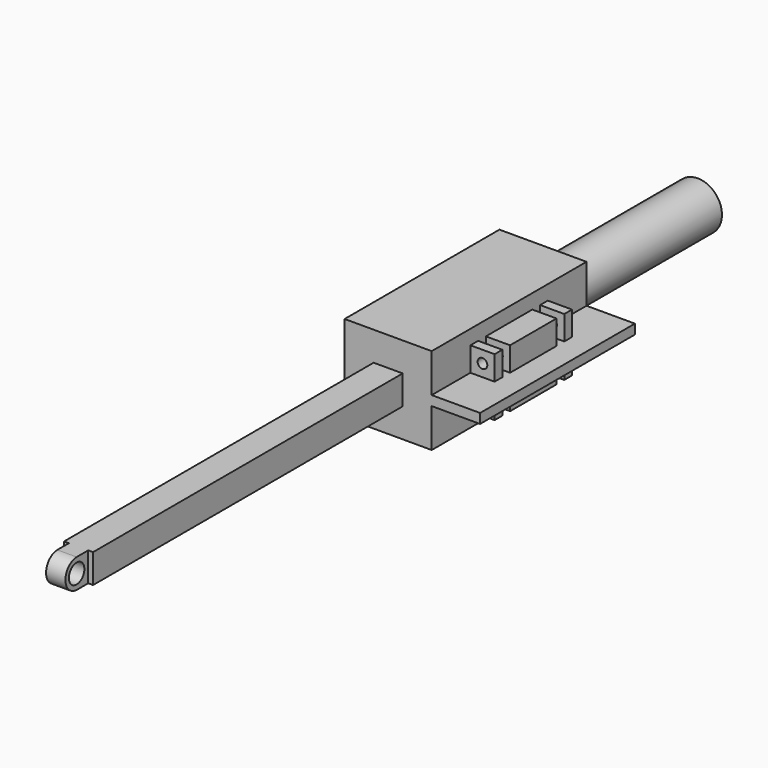
from build123d import *

# Parameters (mm, degrees)
F0_W      = 101.6
F0_H      = 7.62
F1_DEPTH  = 7.62
F2_W      = 5.08
F2_H      = 7.62
F3_DEPTH  = 7.62
F4_R      = 2.54
F5_DEPTH  = 25.4
F6_W      = 22.86
F6_H      = 22.86
F6_W_2    = 7.62
F6_H_2    = 7.62
F7_DEPTH  = 50.8
F8_R      = 6.35
F8_R_2    = 3.81
F9_DEPTH  = 50.8
F10_W     = 50.8
F10_H     = 2.54
F11_DEPTH = 12.7
F12_W     = 2.54
F12_H     = 6.35
F12_W_2   = 15.24
F13_DEPTH = 6.35
F14_W     = 2.54
F14_H     = 6.35
F14_W_2   = 15.24
F15_DEPTH = 6.35
F16_R     = 1.27
F17_DEPTH = 25.4
F18_R     = 1.27
F19_DEPTH = 25.4


with BuildPart() as f1:
    # F0 (on Right) → F1 (new body)
    with BuildSketch(Plane.YZ):
        with Locations((-1.6321643911, 33.6084578316)):
            Rectangle(F0_W, F0_H)
    extrude(amount=F1_DEPTH)

    # F2 (on face) → F3 (join)
    with BuildSketch(Plane.XZ.offset(52.4321643911)):
        with Locations((3.81, 33.6084578316)):
            Rectangle(F2_W, F2_H)
    extrude(amount=F3_DEPTH)

    # F4 (on face) → F5 (cut)
    with BuildSketch(Plane.YZ.offset(6.35)):
        with Locations((-56.2421643911, 33.6084578316)):
            Circle(F4_R)
        with BuildLine():
            ThreePointArc((-56.2421643911, 29.7984578316), (-59.9211503168, 33.6084578316), (-56.2421643911, 37.4184578316))
            Line((-56.2421643911, 37.4184578316), (-60.0521643911, 37.4184578316))
            Line((-60.0521643911, 37.4184578316), (-60.0521643911, 29.7984578316))
            Line((-60.0521643911, 29.7984578316), (-56.2421643911, 29.7984578316))
        make_face()
    extrude(amount=-F5_DEPTH, mode=Mode.SUBTRACT)

    # F6 (on face) → F7 (join)
    with BuildSketch(Plane(origin=(0, 49.1678356089, 0), x_dir=(-1, 0, 0), z_dir=(0, 1, 0))):
        with Locations((-3.81, 33.6136929691)):
            Rectangle(F6_W, F6_H)
        with Locations((-3.81, 33.6084578316)):
            Rectangle(F6_W_2, F6_H_2, mode=Mode.SUBTRACT)
        with Locations((-3.81, 33.6084578316)):
            Rectangle(F6_W_2, F6_H_2)
    extrude(amount=F7_DEPTH)

    # F8 (on face) → F9 (join)
    with BuildSketch(Plane(origin=(0, 99.9678356089, 0), x_dir=(-1, 0, 0), z_dir=(0, 1, 0))):
        with Locations((-3.81, 33.6136929691)):
            Circle(F8_R)
        with Locations((-3.81, 33.6136929691)):
            Circle(F8_R_2, mode=Mode.SUBTRACT)
    extrude(amount=F9_DEPTH)

    # F10 (on face) → F11 (join)
    with BuildSketch(Plane.YZ.offset(15.24)):
        with Locations((74.5678356089, 33.6136929691)):
            Rectangle(F10_W, F10_H)
    extrude(amount=F11_DEPTH)

    # F12 (on face) → F13 (join)
    with BuildSketch(Plane.YZ.offset(15.24)):
        with Locations((63.1378356089, 38.0586929691)):
            Rectangle(F12_W, F12_H)
        with Locations((74.5678356089, 38.0586929691)):
            Rectangle(F12_W_2, F12_H)
        with Locations((85.9978356089, 38.0586929691)):
            Rectangle(F12_W, F12_H)
    extrude(amount=F13_DEPTH)

    # F14 (on face) → F15 (join)
    with BuildSketch(Plane.YZ.offset(15.24)):
        with Locations((63.1378356089, 29.1686929691)):
            Rectangle(F14_W, F14_H)
        with Locations((74.5678356089, 29.1686929691)):
            Rectangle(F14_W_2, F14_H)
        with Locations((85.9978356089, 29.1686929691)):
            Rectangle(F14_W, F14_H)
    extrude(amount=F15_DEPTH)

    # F16 (on face) → F17 (cut)
    with BuildSketch(Plane.XZ.offset(-61.8678356089)):
        with Locations((18.415, 38.0586929691)):
            Circle(F16_R)
    extrude(amount=-F17_DEPTH, mode=Mode.SUBTRACT)

    # F18 (on face) → F19 (cut)
    with BuildSketch(Plane.XZ.offset(-61.8678356089)):
        with Locations((18.415, 29.1686929691)):
            Circle(F18_R)
    extrude(amount=-F19_DEPTH, mode=Mode.SUBTRACT)


solid = f1.part
